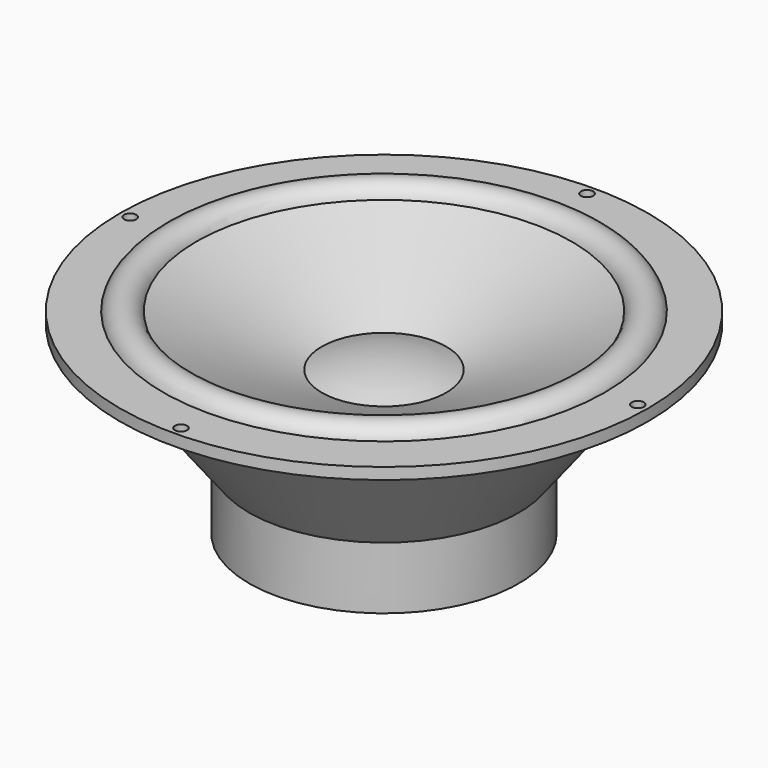
from build123d import *

# Parameters (mm, degrees)
F2_R     = 2.5
F3_DEPTH = 4.7


with BuildPart() as f1:
    # F0 (on Front) → F1 (revolve)
    with BuildSketch(Plane.XZ):
        with BuildLine():
            Line((0, 0), (0, 63.192364))
            ThreePointArc((0, 63.192364), (-12.881749, 62.106574), (-25.4, 58.879841))
            Line((-25.4, 58.879841), (-76.506451, 80))
            ThreePointArc((-76.506451, 80), (-83.295077, 85), (-90.083703, 80))
            Line((-90.083703, 80), (-107.7, 80))
            Line((-107.7, 80), (-107.7, 75.3))
            Line((-107.7, 75.3), (-93.4, 75.3))
            Line((-93.4, 75.3), (-55, 25.4))
            Line((-55, 25.4), (-55, 0))
            Line((-55, 0), (0, 0))
        make_face()
    revolve(axis=Axis((0, 0, 31.596182), (0, 0, -1)))

    # F2 (on face) → F3 (cut, through all)
    with BuildSketch(Plane.XY.offset(80)):
        with Locations((-103.5, 0)):
            Circle(F2_R)
        with Locations((0, 103.5)):
            Circle(F2_R)
        with Locations((103.5, 0)):
            Circle(F2_R)
        with Locations((0, -103.5)):
            Circle(F2_R)
    extrude(amount=-F3_DEPTH, mode=Mode.SUBTRACT)


solid = f1.part
